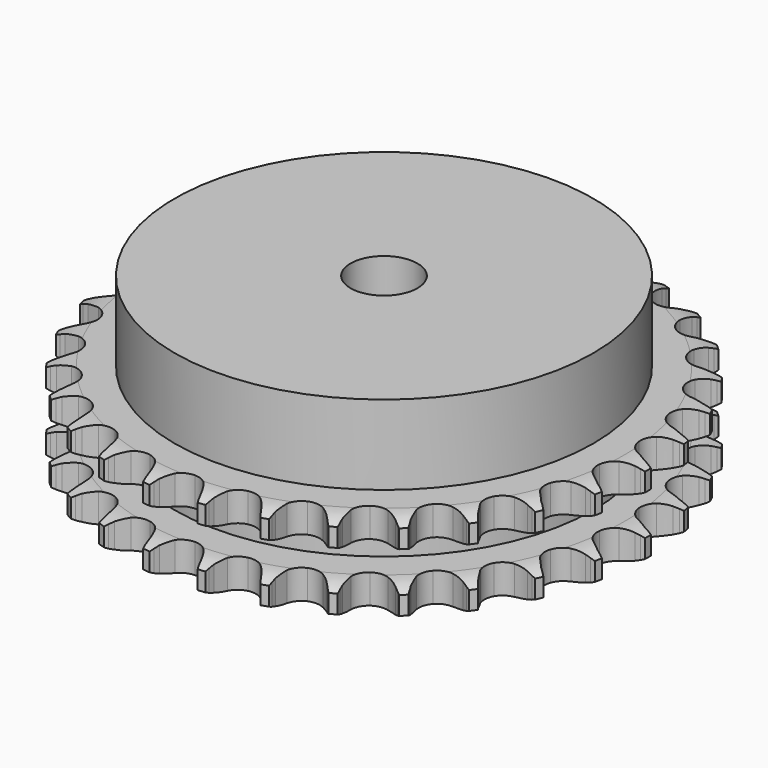
from build123d import *

# Parameters (mm, degrees)
PAD_DEPTH         = 21
SKETCH001_R       = 50
PAD001_DEPTH      = 40
SKETCH002_R       = 8
POCKET_DEPTH      = 0.001
POCKET_DEPTH_BACK = 40.001


with BuildPart() as part:
    # Sprocket → Pad (new body)
    with BuildSketch(Plane.XY):
        with BuildLine():
            ThreePointArc((-6.747514, 64.19831), (-5.953185, 63.151221), (-5.370742, 61.973039))
            Line((-5.370742, 61.973039), (-4.955769, 60.884432))
            ThreePointArc((-4.955769, 60.884432), (-4.297005, 59.465248), (-3.445613, 58.152548))
            ThreePointArc((-3.445613, 58.152548), (-1.925065, 56.887921), (0, 56.434629))
            ThreePointArc((0, 56.434629), (1.925065, 56.887921), (3.445613, 58.152548))
            ThreePointArc((3.445613, 58.152548), (4.297005, 59.465248), (4.955769, 60.884432))
            Line((4.955769, 60.884432), (5.370742, 61.973039))
            ThreePointArc((5.370742, 61.973039), (5.953185, 63.151221), (6.747514, 64.19831))
            ThreePointArc((6.747514, 64.19831), (7.306783, 63.008952), (7.631541, 61.735419))
            Line((7.631541, 61.735419), (7.811112, 60.584324))
            ThreePointArc((7.811112, 60.584324), (8.160415, 59.059188), (8.720276, 57.598159))
            ThreePointArc((8.720276, 57.598159), (9.944666, 56.045027), (11.733419, 55.201397))
            ThreePointArc((11.733419, 55.201397), (13.710661, 55.24454), (15.460913, 56.165392))
            Line((15.460913, 56.165392), (17.506058, 58.523599))
            ThreePointArc((17.506058, 58.523599), (17.809357, 59.021153), (18.138297, 59.502139))
            ThreePointArc((18.138297, 59.502139), (18.952971, 60.533479), (19.947644, 61.392536))
            ThreePointArc((19.947644, 61.392536), (20.24741, 60.11289), (20.300289, 58.799666))
            Line((20.300289, 58.799666), (20.23661, 57.636389))
            ThreePointArc((20.23661, 57.636389), (20.261186, 56.071957), (20.505048, 54.526453))
            ThreePointArc((20.505048, 54.526453), (21.379768, 52.752696), (22.954031, 51.555599))
            ThreePointArc((22.954031, 51.555599), (24.897036, 51.186708), (26.800496, 51.723539))
            Line((26.800496, 51.723539), (29.291249, 53.605004))
            ThreePointArc((29.291249, 53.605004), (29.691367, 54.028626), (30.113122, 54.430711))
            ThreePointArc((30.113122, 54.430711), (31.124421, 55.270133), (32.275966, 55.903613))
            ThreePointArc((32.275966, 55.903613), (32.303129, 54.589606), (32.081817, 53.294084))
            Line((32.081817, 53.294084), (31.77767, 52.169468))
            ThreePointArc((31.77767, 52.169468), (31.476446, 50.634113), (31.393651, 49.07168))
            ThreePointArc((31.393651, 49.07168), (31.880471, 47.15482), (33.171442, 45.656574))
            ThreePointArc((33.171442, 45.656574), (34.995291, 44.89177), (36.96877, 45.021119))
            Line((36.96877, 45.021119), (39.796272, 46.343613))
            ThreePointArc((39.796272, 46.343613), (40.275723, 46.674788), (40.77186, 46.980399))
            ThreePointArc((40.77186, 46.980399), (41.935584, 47.591217), (43.193674, 47.971434))
            ThreePointArc((43.193674, 47.971434), (42.947045, 46.680494), (42.461216, 45.459296))
            Line((42.461216, 45.459296), (41.929894, 44.422491))
            ThreePointArc((41.929894, 44.422491), (41.316034, 42.983315), (40.9102, 41.472239))
            ThreePointArc((40.9102, 41.472239), (40.987845, 39.496051), (41.939102, 37.762137))
            ThreePointArc((41.939102, 37.762137), (43.564084, 36.634847), (45.52133, 36.35106))
            Line((45.52133, 36.35106), (48.562007, 37.056783))
            ThreePointArc((48.562007, 37.056783), (49.099836, 37.281038), (49.648671, 37.476818))
            ThreePointArc((49.648671, 37.476818), (50.913962, 37.832336), (52.22361, 37.942674))
            ThreePointArc((52.22361, 37.942674), (51.713969, 36.73122), (50.984855, 35.637718))
            Line((50.984855, 35.637718), (50.249581, 34.734038))
            ThreePointArc((50.249581, 34.734038), (49.349913, 33.45394), (48.638777, 32.060262))
            ThreePointArc((48.638777, 32.060262), (48.303853, 30.111116), (48.873822, 28.217314))
            ThreePointArc((48.873822, 28.217314), (50.228917, 26.776806), (52.08439, 26.092286))
            Line((52.08439, 26.092286), (55.205349, 26.150395))
            ThreePointArc((55.205349, 26.150395), (55.77805, 26.257929), (56.355597, 26.335321))
            ThreePointArc((56.355597, 26.335321), (57.667154, 26.420001), (58.971124, 26.255636))
            ThreePointArc((58.971124, 26.255636), (58.220745, 25.176616), (57.280212, 24.258601))
            Line((57.280212, 24.258601), (56.373119, 23.52754))
            ThreePointArc((56.373119, 23.52754), (55.226964, 22.462467), (54.241607, 21.247098))
            ThreePointArc((54.241607, 21.247098), (53.50875, 19.41018), (53.672521, 17.439259))
            ThreePointArc((53.672521, 17.439259), (54.698506, 15.748489), (56.371113, 14.693153))
            Line((56.371113, 14.693153), (59.435953, 14.101108))
            ThreePointArc((59.435953, 14.101108), (60.018496, 14.087221), (60.599513, 14.042844))
            ThreePointArc((60.599513, 14.042844), (61.900016, 13.852985), (63.141318, 13.421101))
            ThreePointArc((63.141318, 13.421101), (62.182995, 12.521673), (61.072149, 11.819267))
            Line((61.072149, 11.819267), (60.032882, 11.292776))
            ThreePointArc((60.032882, 11.292776), (58.690332, 10.489277), (57.473818, 9.505334))
            ThreePointArc((57.473818, 9.505334), (56.375059, 7.860926), (56.125474, 5.899025))
            ThreePointArc((56.125474, 5.899025), (56.777507, 4.031888), (58.194147, 2.651859))
            Line((58.194147, 2.651859), (61.06892, 1.435536))
            ThreePointArc((61.06892, 1.435536), (61.635846, 1.300834), (62.19494, 1.136626))
            ThreePointArc((62.19494, 1.136626), (63.427549, 0.680527), (64.551932, 0))
            ThreePointArc((64.551932, 0), (63.427549, -0.680527), (62.19494, -1.136626))
            Line((62.19494, -1.136626), (61.06892, -1.435536))
            ThreePointArc((61.06892, -1.435536), (59.588651, -1.942345), (58.194147, -2.651859))
            ThreePointArc((58.194147, -2.651859), (56.777507, -4.031888), (56.125474, -5.899025))
            ThreePointArc((56.125474, -5.899025), (56.375059, -7.860926), (57.473818, -9.505334))
            Line((57.473818, -9.505334), (60.032882, -11.292776))
            ThreePointArc((60.032882, -11.292776), (60.559414, -11.542405), (61.072149, -11.819267))
            ThreePointArc((61.072149, -11.819267), (62.182995, -12.521673), (63.141318, -13.421101))
            ThreePointArc((63.141318, -13.421101), (61.900016, -13.852985), (60.599513, -14.042844))
            Line((60.599513, -14.042844), (59.435953, -14.101108))
            ThreePointArc((59.435953, -14.101108), (57.88266, -14.289077), (56.371113, -14.693153))
            ThreePointArc((56.371113, -14.693153), (54.698506, -15.748489), (53.672521, -17.439259))
            ThreePointArc((53.672521, -17.439259), (53.50875, -19.41018), (54.241607, -21.247098))
            Line((54.241607, -21.247098), (56.373119, -23.52754))
            ThreePointArc((56.373119, -23.52754), (56.836244, -23.881186), (57.280212, -24.258601))
            ThreePointArc((57.280212, -24.258601), (58.220745, -25.176616), (58.971124, -26.255636))
            ThreePointArc((58.971124, -26.255636), (57.667154, -26.420001), (56.355597, -26.335321))
            Line((56.355597, -26.335321), (55.205349, -26.150395))
            ThreePointArc((55.205349, -26.150395), (53.646919, -26.011308), (52.08439, -26.092286))
            ThreePointArc((52.08439, -26.092286), (50.228917, -26.776806), (48.873822, -28.217314))
            ThreePointArc((48.873822, -28.217314), (48.303853, -30.111116), (48.638777, -32.060262))
            Line((48.638777, -32.060262), (50.249581, -34.734038))
            ThreePointArc((50.249581, -34.734038), (50.629058, -35.176244), (50.984855, -35.637718))
            ThreePointArc((50.984855, -35.637718), (51.713969, -36.73122), (52.22361, -37.942674))
            ThreePointArc((52.22361, -37.942674), (50.913962, -37.832336), (49.648671, -37.476818))
            Line((49.648671, -37.476818), (48.562007, -37.056783))
            ThreePointArc((48.562007, -37.056783), (47.06655, -36.59672), (45.52133, -36.35106))
            ThreePointArc((45.52133, -36.35106), (43.564084, -36.634847), (41.939102, -37.762137))
            ThreePointArc((41.939102, -37.762137), (40.987845, -39.496051), (40.9102, -41.472239))
            Line((40.9102, -41.472239), (41.929894, -44.422491))
            ThreePointArc((41.929894, -44.422491), (42.209139, -44.933932), (42.461216, -45.459296))
            ThreePointArc((42.461216, -45.459296), (42.947045, -46.680494), (43.193674, -47.971434))
            ThreePointArc((43.193674, -47.971434), (41.935584, -47.591217), (40.77186, -46.980399))
            Line((40.77186, -46.980399), (39.796272, -46.343613))
            ThreePointArc((39.796272, -46.343613), (38.429146, -45.58268), (36.96877, -45.021119))
            ThreePointArc((36.96877, -45.021119), (34.995291, -44.89177), (33.171442, -45.656574))
            ThreePointArc((33.171442, -45.656574), (31.880471, -47.15482), (31.393651, -49.07168))
            Line((31.393651, -49.07168), (31.77767, -52.169468))
            ThreePointArc((31.77767, -52.169468), (31.944479, -52.727791), (32.081817, -53.294084))
            ThreePointArc((32.081817, -53.294084), (32.303129, -54.589606), (32.275966, -55.903613))
            ThreePointArc((32.275966, -55.903613), (31.124421, -55.270133), (30.113122, -54.430711))
            Line((30.113122, -54.430711), (29.291249, -53.605004))
            ThreePointArc((29.291249, -53.605004), (28.112205, -52.576458), (26.800496, -51.723539))
            ThreePointArc((26.800496, -51.723539), (24.897036, -51.186708), (22.954031, -51.555599))
            ThreePointArc((22.954031, -51.555599), (21.379768, -52.752696), (20.505048, -54.526453))
            Line((20.505048, -54.526453), (20.23661, -57.636389))
            ThreePointArc((20.23661, -57.636389), (20.283691, -58.217193), (20.300289, -58.799666))
            ThreePointArc((20.300289, -58.799666), (20.24741, -60.11289), (19.947644, -61.392536))
            ThreePointArc((19.947644, -61.392536), (18.952971, -60.533479), (18.138297, -59.502139))
            Line((18.138297, -59.502139), (17.506058, -58.523599))
            ThreePointArc((17.506058, -58.523599), (16.566626, -57.272392), (15.460913, -56.165392))
            ThreePointArc((15.460913, -56.165392), (13.710661, -55.24454), (11.733419, -55.201397))
            ThreePointArc((11.733419, -55.201397), (9.944666, -56.045027), (8.720276, -57.598159))
            Line((8.720276, -57.598159), (7.811112, -60.584324))
            ThreePointArc((7.811112, -60.584324), (7.736409, -61.162224), (7.631541, -61.735419))
            ThreePointArc((7.631541, -61.735419), (7.306783, -63.008952), (6.747514, -64.19831))
            ThreePointArc((6.747514, -64.19831), (5.953185, -63.151221), (5.370742, -61.973039))
            Line((5.370742, -61.973039), (4.955769, -60.884432))
            ThreePointArc((4.955769, -60.884432), (4.297005, -59.465248), (3.445613, -58.152548))
            ThreePointArc((3.445613, -58.152548), (1.925065, -56.887921), (0, -56.434629))
            ThreePointArc((0, -56.434629), (-1.925065, -56.887921), (-3.445613, -58.152548))
            Line((-3.445613, -58.152548), (-4.955769, -60.884432))
            ThreePointArc((-4.955769, -60.884432), (-5.148992, -61.434173), (-5.370742, -61.973039))
            ThreePointArc((-5.370742, -61.973039), (-5.953185, -63.151221), (-6.747514, -64.19831))
            ThreePointArc((-6.747514, -64.19831), (-7.306783, -63.008952), (-7.631541, -61.735419))
            Line((-7.631541, -61.735419), (-7.811112, -60.584324))
            ThreePointArc((-7.811112, -60.584324), (-8.160415, -59.059188), (-8.720276, -57.598159))
            ThreePointArc((-8.720276, -57.598159), (-9.944666, -56.045027), (-11.733419, -55.201397))
            ThreePointArc((-11.733419, -55.201397), (-13.710661, -55.24454), (-15.460913, -56.165392))
            Line((-15.460913, -56.165392), (-17.506058, -58.523599))
            ThreePointArc((-17.506058, -58.523599), (-17.809357, -59.021153), (-18.138297, -59.502139))
            ThreePointArc((-18.138297, -59.502139), (-18.952971, -60.533479), (-19.947644, -61.392536))
            ThreePointArc((-19.947644, -61.392536), (-20.24741, -60.11289), (-20.300289, -58.799666))
            Line((-20.300289, -58.799666), (-20.23661, -57.636389))
            ThreePointArc((-20.23661, -57.636389), (-20.261186, -56.071957), (-20.505048, -54.526453))
            ThreePointArc((-20.505048, -54.526453), (-21.379768, -52.752696), (-22.954031, -51.555599))
            ThreePointArc((-22.954031, -51.555599), (-24.897036, -51.186708), (-26.800496, -51.723539))
            Line((-26.800496, -51.723539), (-29.291249, -53.605004))
            ThreePointArc((-29.291249, -53.605004), (-29.691367, -54.028626), (-30.113122, -54.430711))
            ThreePointArc((-30.113122, -54.430711), (-31.124421, -55.270133), (-32.275966, -55.903613))
            ThreePointArc((-32.275966, -55.903613), (-32.303129, -54.589606), (-32.081817, -53.294084))
            Line((-32.081817, -53.294084), (-31.77767, -52.169468))
            ThreePointArc((-31.77767, -52.169468), (-31.476446, -50.634113), (-31.393651, -49.07168))
            ThreePointArc((-31.393651, -49.07168), (-31.880471, -47.15482), (-33.171442, -45.656574))
            ThreePointArc((-33.171442, -45.656574), (-34.995291, -44.89177), (-36.96877, -45.021119))
            Line((-36.96877, -45.021119), (-39.796272, -46.343613))
            ThreePointArc((-39.796272, -46.343613), (-40.275723, -46.674788), (-40.77186, -46.980399))
            ThreePointArc((-40.77186, -46.980399), (-41.935584, -47.591217), (-43.193674, -47.971434))
            ThreePointArc((-43.193674, -47.971434), (-42.947045, -46.680494), (-42.461216, -45.459296))
            Line((-42.461216, -45.459296), (-41.929894, -44.422491))
            ThreePointArc((-41.929894, -44.422491), (-41.316034, -42.983315), (-40.9102, -41.472239))
            ThreePointArc((-40.9102, -41.472239), (-40.987845, -39.496051), (-41.939102, -37.762137))
            ThreePointArc((-41.939102, -37.762137), (-43.564084, -36.634847), (-45.52133, -36.35106))
            Line((-45.52133, -36.35106), (-48.562007, -37.056783))
            ThreePointArc((-48.562007, -37.056783), (-49.099836, -37.281038), (-49.648671, -37.476818))
            ThreePointArc((-49.648671, -37.476818), (-50.913962, -37.832336), (-52.22361, -37.942674))
            ThreePointArc((-52.22361, -37.942674), (-51.713969, -36.73122), (-50.984855, -35.637718))
            Line((-50.984855, -35.637718), (-50.249581, -34.734038))
            ThreePointArc((-50.249581, -34.734038), (-49.349913, -33.45394), (-48.638777, -32.060262))
            ThreePointArc((-48.638777, -32.060262), (-48.303853, -30.111116), (-48.873822, -28.217314))
            ThreePointArc((-48.873822, -28.217314), (-50.228917, -26.776806), (-52.08439, -26.092286))
            Line((-52.08439, -26.092286), (-55.205349, -26.150395))
            ThreePointArc((-55.205349, -26.150395), (-55.77805, -26.257929), (-56.355597, -26.335321))
            ThreePointArc((-56.355597, -26.335321), (-57.667154, -26.420001), (-58.971124, -26.255636))
            ThreePointArc((-58.971124, -26.255636), (-58.220745, -25.176616), (-57.280212, -24.258601))
            Line((-57.280212, -24.258601), (-56.373119, -23.52754))
            ThreePointArc((-56.373119, -23.52754), (-55.226964, -22.462467), (-54.241607, -21.247098))
            ThreePointArc((-54.241607, -21.247098), (-53.50875, -19.41018), (-53.672521, -17.439259))
            ThreePointArc((-53.672521, -17.439259), (-54.698506, -15.748489), (-56.371113, -14.693153))
            Line((-56.371113, -14.693153), (-59.435953, -14.101108))
            ThreePointArc((-59.435953, -14.101108), (-60.018496, -14.087221), (-60.599513, -14.042844))
            ThreePointArc((-60.599513, -14.042844), (-61.900016, -13.852985), (-63.141318, -13.421101))
            ThreePointArc((-63.141318, -13.421101), (-62.182995, -12.521673), (-61.072149, -11.819267))
            Line((-61.072149, -11.819267), (-60.032882, -11.292776))
            ThreePointArc((-60.032882, -11.292776), (-58.690332, -10.489277), (-57.473818, -9.505334))
            ThreePointArc((-57.473818, -9.505334), (-56.375059, -7.860926), (-56.125474, -5.899025))
            ThreePointArc((-56.125474, -5.899025), (-56.777507, -4.031888), (-58.194147, -2.651859))
            Line((-58.194147, -2.651859), (-61.06892, -1.435536))
            ThreePointArc((-61.06892, -1.435536), (-61.635846, -1.300834), (-62.19494, -1.136626))
            ThreePointArc((-62.19494, -1.136626), (-63.427549, -0.680527), (-64.551932, 0))
            ThreePointArc((-64.551932, 0), (-63.427549, 0.680527), (-62.19494, 1.136626))
            Line((-62.19494, 1.136626), (-61.06892, 1.435536))
            ThreePointArc((-61.06892, 1.435536), (-59.588651, 1.942345), (-58.194147, 2.651859))
            ThreePointArc((-58.194147, 2.651859), (-56.777507, 4.031888), (-56.125474, 5.899025))
            ThreePointArc((-56.125474, 5.899025), (-56.375059, 7.860926), (-57.473818, 9.505334))
            Line((-57.473818, 9.505334), (-60.032882, 11.292776))
            ThreePointArc((-60.032882, 11.292776), (-60.559414, 11.542405), (-61.072149, 11.819267))
            ThreePointArc((-61.072149, 11.819267), (-62.182995, 12.521673), (-63.141318, 13.421101))
            ThreePointArc((-63.141318, 13.421101), (-61.900016, 13.852985), (-60.599513, 14.042844))
            Line((-60.599513, 14.042844), (-59.435953, 14.101108))
            ThreePointArc((-59.435953, 14.101108), (-57.88266, 14.289077), (-56.371113, 14.693153))
            ThreePointArc((-56.371113, 14.693153), (-54.698506, 15.748489), (-53.672521, 17.439259))
            ThreePointArc((-53.672521, 17.439259), (-53.50875, 19.41018), (-54.241607, 21.247098))
            Line((-54.241607, 21.247098), (-56.373119, 23.52754))
            ThreePointArc((-56.373119, 23.52754), (-56.836244, 23.881186), (-57.280212, 24.258601))
            ThreePointArc((-57.280212, 24.258601), (-58.220745, 25.176616), (-58.971124, 26.255636))
            ThreePointArc((-58.971124, 26.255636), (-57.667154, 26.420001), (-56.355597, 26.335321))
            Line((-56.355597, 26.335321), (-55.205349, 26.150395))
            ThreePointArc((-55.205349, 26.150395), (-53.646919, 26.011308), (-52.08439, 26.092286))
            ThreePointArc((-52.08439, 26.092286), (-50.228917, 26.776806), (-48.873822, 28.217314))
            ThreePointArc((-48.873822, 28.217314), (-48.303853, 30.111116), (-48.638777, 32.060262))
            Line((-48.638777, 32.060262), (-50.249581, 34.734038))
            ThreePointArc((-50.249581, 34.734038), (-50.629058, 35.176244), (-50.984855, 35.637718))
            ThreePointArc((-50.984855, 35.637718), (-51.713969, 36.73122), (-52.22361, 37.942674))
            ThreePointArc((-52.22361, 37.942674), (-50.913962, 37.832336), (-49.648671, 37.476818))
            Line((-49.648671, 37.476818), (-48.562007, 37.056783))
            ThreePointArc((-48.562007, 37.056783), (-47.06655, 36.59672), (-45.52133, 36.35106))
            ThreePointArc((-45.52133, 36.35106), (-43.564084, 36.634847), (-41.939102, 37.762137))
            ThreePointArc((-41.939102, 37.762137), (-40.987845, 39.496051), (-40.9102, 41.472239))
            Line((-40.9102, 41.472239), (-41.929894, 44.422491))
            ThreePointArc((-41.929894, 44.422491), (-42.209139, 44.933932), (-42.461216, 45.459296))
            ThreePointArc((-42.461216, 45.459296), (-42.947045, 46.680494), (-43.193674, 47.971434))
            ThreePointArc((-43.193674, 47.971434), (-41.935584, 47.591217), (-40.77186, 46.980399))
            Line((-40.77186, 46.980399), (-39.796272, 46.343613))
            ThreePointArc((-39.796272, 46.343613), (-38.429146, 45.58268), (-36.96877, 45.021119))
            ThreePointArc((-36.96877, 45.021119), (-34.995291, 44.89177), (-33.171442, 45.656574))
            ThreePointArc((-33.171442, 45.656574), (-31.880471, 47.15482), (-31.393651, 49.07168))
            Line((-31.393651, 49.07168), (-31.77767, 52.169468))
            ThreePointArc((-31.77767, 52.169468), (-31.944479, 52.727791), (-32.081817, 53.294084))
            ThreePointArc((-32.081817, 53.294084), (-32.303129, 54.589606), (-32.275966, 55.903613))
            ThreePointArc((-32.275966, 55.903613), (-31.124421, 55.270133), (-30.113122, 54.430711))
            Line((-30.113122, 54.430711), (-29.291249, 53.605004))
            ThreePointArc((-29.291249, 53.605004), (-28.112205, 52.576458), (-26.800496, 51.723539))
            ThreePointArc((-26.800496, 51.723539), (-24.897036, 51.186708), (-22.954031, 51.555599))
            ThreePointArc((-22.954031, 51.555599), (-21.379768, 52.752696), (-20.505048, 54.526453))
            Line((-20.505048, 54.526453), (-20.23661, 57.636389))
            ThreePointArc((-20.23661, 57.636389), (-20.283691, 58.217193), (-20.300289, 58.799666))
            ThreePointArc((-20.300289, 58.799666), (-20.24741, 60.11289), (-19.947644, 61.392536))
            ThreePointArc((-19.947644, 61.392536), (-18.952971, 60.533479), (-18.138297, 59.502139))
            Line((-18.138297, 59.502139), (-17.506058, 58.523599))
            ThreePointArc((-17.506058, 58.523599), (-16.566626, 57.272392), (-15.460913, 56.165392))
            ThreePointArc((-15.460913, 56.165392), (-13.710661, 55.24454), (-11.733419, 55.201397))
            ThreePointArc((-11.733419, 55.201397), (-9.944666, 56.045027), (-8.720276, 57.598159))
            Line((-8.720276, 57.598159), (-7.811112, 60.584324))
            ThreePointArc((-7.811112, 60.584324), (-7.736409, 61.162224), (-7.631541, 61.735419))
            ThreePointArc((-7.631541, 61.735419), (-7.306783, 63.008952), (-6.747514, 64.19831))
        make_face()
    extrude(amount=PAD_DEPTH)

    # Sketch → Groove (revolve, cut)
    with BuildSketch(Plane.XZ):
        with BuildLine():
            ThreePointArc((57.383431, 0), (60.29032, 0.329167), (63.05, 1.3))
            Line((63.05, 1.3), (63.05, 5.7))
            ThreePointArc((63.05, 5.7), (60.29032, 6.670833), (57.383431, 7))
            Line((50, 7), (57.383431, 7))
            Line((50, 14), (50, 7))
            Line((57.383431, 14), (50, 14))
            ThreePointArc((57.383431, 14), (60.29032, 14.329167), (63.05, 15.3))
            Line((63.05, 15.3), (63.05, 19.7))
            ThreePointArc((63.05, 19.7), (60.29032, 20.670833), (57.383431, 21))
            Line((57.383431, 21), (67.383431, 21))
            Line((67.383431, 21), (67.383431, 0))
            Line((57.383431, 0), (67.383431, 0))
        make_face()
    revolve(axis=Axis((0, 0, 0), (0, 0, 1)), mode=Mode.SUBTRACT)

    # Sketch001 → Pad001 (join)
    with BuildSketch(Plane.XY):
        Circle(SKETCH001_R)
    extrude(amount=PAD001_DEPTH)

    # Sketch002 → Pocket (cut, two sides)
    with BuildSketch(Plane.XY) as pocket_sk:
        Circle(SKETCH002_R)
    extrude(amount=-POCKET_DEPTH, mode=Mode.SUBTRACT)
    extrude(pocket_sk.sketch, amount=POCKET_DEPTH_BACK, mode=Mode.SUBTRACT)


solid = part.part
